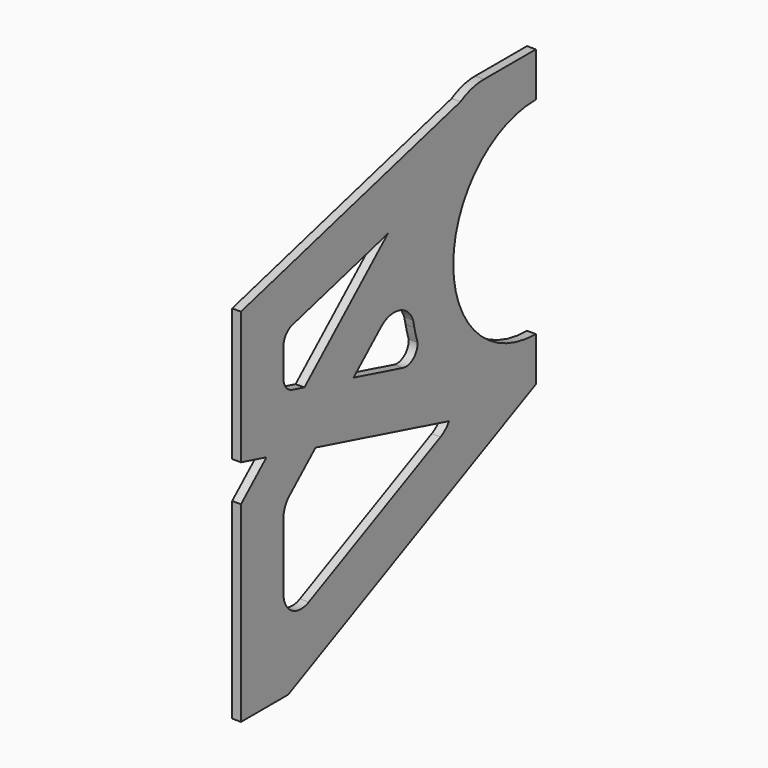
from build123d import *

# Parameters (mm, degrees)
F1_DEPTH = 3
F3_DEPTH = 3


with BuildPart() as f1:
    # F0 (on Right) → F1 (new body)
    with BuildSketch(Plane.YZ):
        with BuildLine():
            ThreePointArc((0, -35), (-35, 0), (0, 35))
            Line((0, 35), (0, 50))
            Line((0, 50), (-22, 50))
            ThreePointArc((-22, 50), (-29.119444, 48.689931), (-35.306192, 44.931351))
            Line((-35.306192, 44.931351), (-125, -35))
            Line((-125, -35), (-125, -100))
            Line((-125, -100), (-105, -100))
            Line((-105, -100), (0, -50))
            Line((0, -50), (0, -35))
        make_face()
        with BuildLine():
            ThreePointArc((-96.275498, -75.908841), (-103.504138, -75.479065), (-107, -69.137387))
            Line((-107, -69.137387), (-107, -46.431792))
            ThreePointArc((-107, -46.431792), (-106.343744, -43.363703), (-104.489822, -40.832535))
            Line((-104.489822, -40.832535), (-65.699873, -6.264563))
            ThreePointArc((-65.699873, -6.264563), (-57.267065, -4.57705), (-51.677673, -11.113001))
            ThreePointArc((-51.677673, -11.113001), (-46.996343, -24.335108), (-38.322833, -35.358229))
            ThreePointArc((-38.322833, -35.358229), (-36.281412, -38.203278), (-35.560135, -41.629861))
            ThreePointArc((-35.560135, -41.629861), (-36.8729, -46.167883), (-40.405699, -49.304175))
            Line((-40.405699, -49.304175), (-96.275498, -75.908841))
        make_face(mode=Mode.SUBTRACT)
    extrude(amount=F1_DEPTH)

    # F2 (on Right) → F3 (join)
    with BuildSketch(Plane.YZ):
        with BuildLine():
            ThreePointArc((0, -35), (-35, 0), (0, 35))
            Line((0, 35), (0, 50))
            Line((0, 50), (-18.720067, 50))
            ThreePointArc((-18.720067, 50), (-21.972131, 49.787579), (-25.168931, 49.153926))
            Line((-25.168931, 49.153926), (-125, 22.5))
            Line((-125, 22.5), (-125, -22.5))
            Line((-125, -22.5), (-25.168931, -49.153926))
            ThreePointArc((-25.168931, -49.153926), (-21.972131, -49.787579), (-18.720067, -50))
            Line((-18.720067, -50), (0, -50))
            Line((0, -50), (0, -35))
        make_face()
        with BuildLine():
            Line((-103.289773, 9.665908), (-56.184511, 22.242556))
            ThreePointArc((-56.184511, 22.242556), (-51.209908, 20.791419), (-50.193177, 15.710206))
            ThreePointArc((-50.193177, 15.710206), (-52.998976, 0.017361), (-50.400586, -15.711156))
            ThreePointArc((-50.400586, -15.711156), (-51.461758, -20.754404), (-56.413973, -22.181292))
            Line((-56.413973, -22.181292), (-103.289773, -9.665908))
            ThreePointArc((-103.289773, -9.665908), (-105.965404, -7.880705), (-107, -4.835123))
            Line((-107, -4.835123), (-107, 4.835123))
            ThreePointArc((-107, 4.835123), (-105.965404, 7.880705), (-103.289773, 9.665908))
        make_face(mode=Mode.SUBTRACT)
    extrude(amount=F3_DEPTH)


solid = f1.part
